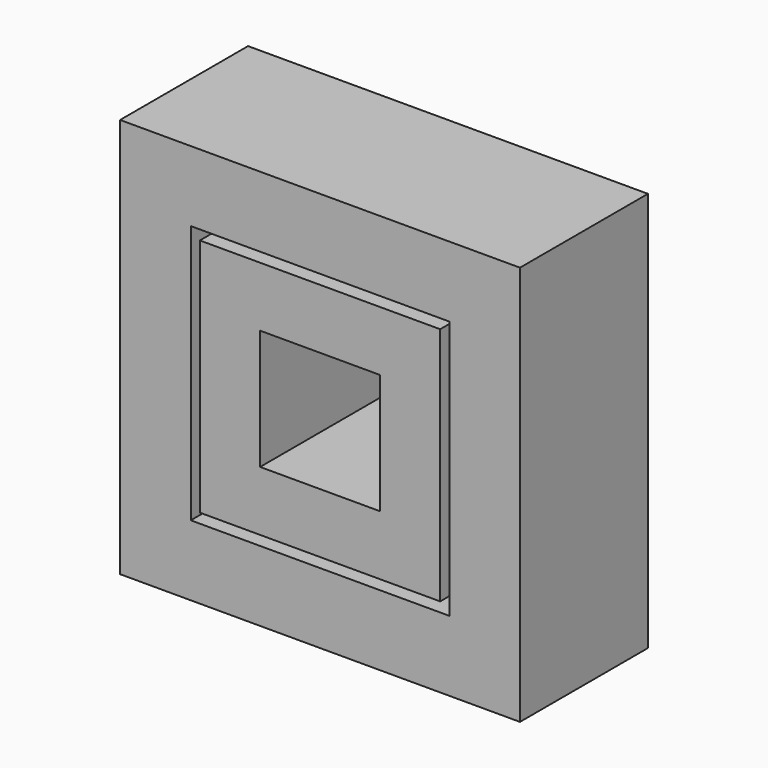
from build123d import *

# Parameters (mm, degrees)
F0_W     = 12.7
F0_H     = 12.7
F1_DEPTH = 5.08
F3_W     = 3.80499
F3_H     = 3.81
F5_DEPTH = 25.4
F4_W     = 8.208692
F4_H     = 8.22731
F4_W_2   = 7.631382
F4_H_2   = 7.60988
F6_DEPTH = 25.4


with BuildPart() as f1:
    # F0 (on Front) → F1 (new body)
    with BuildSketch(Plane.XZ):
        Rectangle(F0_W, F0_H)
    extrude(amount=F1_DEPTH)

    # F3 (on face) → F5 (cut)
    with BuildSketch(Plane.XZ.offset(5.08)):
        Rectangle(F3_W, F3_H)
    extrude(amount=-F5_DEPTH, mode=Mode.SUBTRACT)

    # F4 (on face) → F6 (cut)
    with BuildSketch(Plane.XZ.offset(5.08)):
        Rectangle(F4_W, F4_H)
        Rectangle(F4_W_2, F4_H_2, mode=Mode.SUBTRACT)
    extrude(amount=-F6_DEPTH, mode=Mode.SUBTRACT)


solid = f1.part
